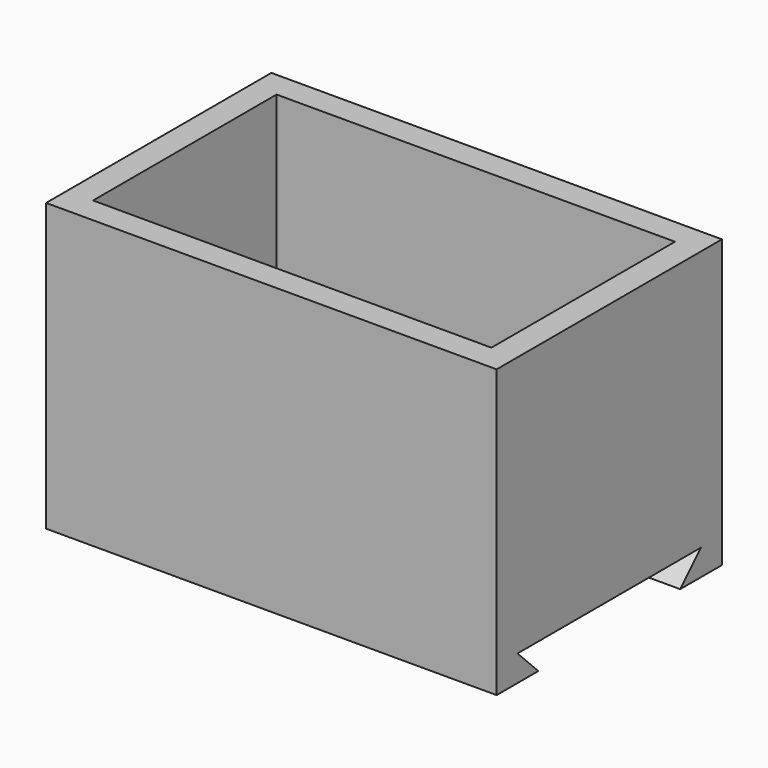
from build123d import *

# Parameters (mm, degrees)
F0_W      = 54.864
F0_H      = 34.29
F1_DEPTH  = 28.575
F2_T      = -3.175
F3_W      = 5.334
F3_H      = 7.112
F4_DEPTH  = 3.81
F6_DEPTH  = 54.864
F8_D      = 2.794
F8_DEPTH  = 10.16
F9_W      = 12.7
F9_H      = 7.62
F10_DEPTH = 3.175


with BuildPart() as f1:
    # F0 (on Top) → F1 (new body)
    with BuildSketch(Plane.XY):
        with Locations((1.706375, 0)):
            Rectangle(F0_W, F0_H)
    extrude(amount=F1_DEPTH)

    # F2
    f2_openings = [f1.faces().sort_by_distance(p)[0] for p in [
        (1.706375, 0, 28.575),
    ]]
    offset(amount=F2_T, openings=f2_openings)

    # F3 (on face) → F4 (join)
    with BuildSketch(Plane.XY.offset(3.175)):
        with Locations((-19.883625, 10.414)):
            Rectangle(F3_W, F3_H)
        with Locations((-19.883625, -10.414)):
            Rectangle(F3_W, F3_H)
        with Locations((23.296375, -10.414)):
            Rectangle(F3_W, F3_H)
        with Locations((23.296375, 10.414)):
            Rectangle(F3_W, F3_H)
    extrude(amount=F4_DEPTH)

    # F5 (on face) → F6 (join)
    with BuildSketch(Plane.YZ.offset(29.138375)):
        Polygon((17.145, -6.35), (17.145, 0), (-17.145, 0), (-17.145, -6.35), (-10.795, -6.35), (-13.97, -3.175), (-10.795, -3.175), (13.97, -3.175), (10.795, -6.35), align=None)
    extrude(amount=-F6_DEPTH)

    # F8
    with Locations(Plane.XY.offset(6.985)):
        with Locations((-20.340825, 11.7602), (23.677375, 11.684), (23.677375, -11.684), (-20.340825, -11.7602)):
            Hole(F8_D / 2, depth=F8_DEPTH)

    # F9 (on face) → F10 (cut)
    with BuildSketch(Plane(origin=(-25.725625, 0, 0), x_dir=(0, -1, 0), z_dir=(-1, 0, 0))):
        with Locations((0, 5.461)):
            Rectangle(F9_W, F9_H)
    extrude(amount=-F10_DEPTH, mode=Mode.SUBTRACT)


solid = f1.part
